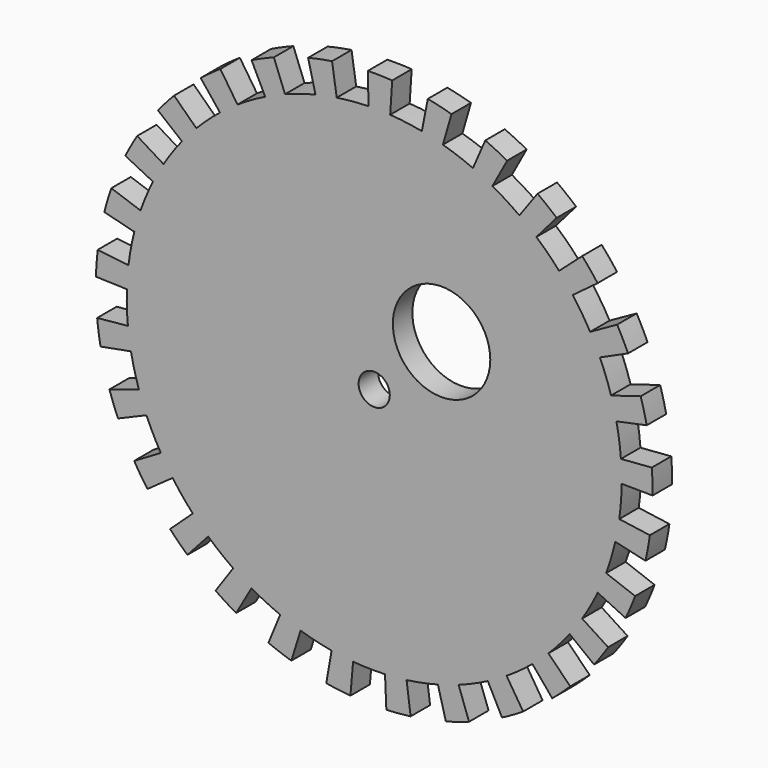
from build123d import *

# Parameters (mm, degrees)
F0_R     = 3.2
F0_R_2   = 10
F1_DEPTH = 5


with BuildPart() as f1:
    # F0 (on Front) → F1 (new body)
    with BuildSketch(Plane.XZ):
        with BuildLine():
            Line((14.102848, 48.803173), (15.865704, 54.90357))
            ThreePointArc((15.865704, 54.90357), (13.448785, 55.545051), (11.006119, 56.080191))
            Line((11.006119, 56.080191), (9.783217, 49.849059))
            ThreePointArc((9.783217, 49.849059), (11.954476, 49.373379), (14.102848, 48.803173))
        make_face()
        with BuildLine():
            Line((54.702883, 16.544396), (48.624785, 14.70613))
            ThreePointArc((48.624785, 14.70613), (49.221552, 12.564984), (49.724084, 10.399782))
            Line((49.724084, 10.399782), (55.939594, 11.699755))
            ThreePointArc((55.939594, 11.699755), (55.374246, 14.135607), (54.702883, 16.544396))
        make_face()
        with BuildLine():
            Line((49.867404, 27.9171), (44.326582, 24.8152))
            ThreePointArc((44.326582, 24.8152), (45.369679, 22.8524), (46.325917, 20.84585))
            Line((46.325917, 20.84585), (52.116656, 23.451581))
            ThreePointArc((52.116656, 23.451581), (51.040889, 25.70895), (49.867404, 27.9171))
        make_face()
        with BuildLine():
            Line((42.700181, 37.984432), (37.955716, 33.763939))
            ThreePointArc((37.955716, 33.763939), (39.396371, 32.071264), (40.761601, 30.317188))
            Line((40.761601, 30.317188), (45.856801, 34.106836))
            ThreePointArc((45.856801, 34.106836), (44.320917, 36.080172), (42.700181, 37.984432))
        make_face()
        with BuildLine():
            Line((33.536344, 46.275654), (29.810084, 41.133914))
            ThreePointArc((29.810084, 41.133914), (31.580932, 39.790511), (33.291318, 38.370928))
            Line((33.291318, 38.370928), (37.452733, 43.167294))
            ThreePointArc((37.452733, 43.167294), (35.528548, 44.764325), (33.536344, 46.275654))
        make_face()
        with BuildLine():
            Line((22.804385, 52.403077), (20.270565, 46.580513))
            ThreePointArc((20.270565, 46.580513), (22.288804, 45.649198), (24.26437, 44.630487))
            Line((24.26437, 44.630487), (27.297417, 50.209297))
            ThreePointArc((27.297417, 50.209297), (25.074904, 51.355347), (22.804385, 52.403077))
        make_face()
        with BuildLine():
            ThreePointArc((-1.161583, 50.786718), (1.06117, 50.788915), (3.281891, 50.693877))
            Line((3.281891, 50.693877), (3.692128, 57.030612))
            ThreePointArc((3.692128, 57.030612), (1.193816, 57.13753), (-1.306781, 57.135058))
            Line((-1.306781, 57.135058), (-1.161583, 50.786718))
        make_face()
        with BuildLine():
            ThreePointArc((-12.052069, 49.349647), (-9.881755, 49.829619), (-7.692523, 50.214192))
            Line((-7.692523, 50.214192), (-8.654088, 56.490966))
            ThreePointArc((-8.654088, 56.490966), (-11.116975, 56.058321), (-13.558578, 55.518352))
            Line((-13.558578, 55.518352), (-12.052069, 49.349647))
        make_face()
        with BuildLine():
            ThreePointArc((-22.379014, 45.605041), (-20.36262, 46.540345), (-18.307243, 47.386547))
            Line((-18.307243, 47.386547), (-20.595648, 53.309866))
            ThreePointArc((-20.595648, 53.309866), (-22.907948, 52.357888), (-25.176391, 51.305671))
            Line((-25.176391, 51.305671), (-22.379014, 45.605041))
        make_face()
        with BuildLine():
            ThreePointArc((-31.659541, 39.727994), (-29.891352, 41.074896), (-28.065936, 42.34316))
            Line((-28.065936, 42.34316), (-31.574179, 47.636055))
            ThreePointArc((-31.574179, 47.636055), (-33.627771, 46.209258), (-35.616983, 44.693993))
            Line((-35.616983, 44.693993), (-31.659541, 39.727994))
        make_face()
        with BuildLine():
            ThreePointArc((-39.459703, 31.99331), (-38.022397, 33.688831), (-36.512298, 35.319854))
            Line((-36.512298, 35.319854), (-41.076336, 39.734836))
            ThreePointArc((-41.076336, 39.734836), (-42.775197, 37.899934), (-44.392165, 35.992474))
            Line((-44.392165, 35.992474), (-39.459703, 31.99331))
        make_face()
        with BuildLine():
            ThreePointArc((-45.414773, 22.762654), (-44.375558, 24.727513), (-43.251386, 26.64503))
            Line((-43.251386, 26.64503), (-48.657809, 29.975659))
            ThreePointArc((-48.657809, 29.975659), (-49.922502, 27.818452), (-51.091619, 25.607986))
            Line((-51.091619, 25.607986), (-45.414773, 22.762654))
        make_face()
        with BuildLine():
            ThreePointArc((-49.246298, 12.467643), (-48.653766, 14.609964), (-47.968086, 16.724315))
            Line((-47.968086, 16.724315), (-53.964097, 18.814854))
            ThreePointArc((-53.964097, 18.814854), (-54.735487, 16.43621), (-55.402085, 14.026098))
            Line((-55.402085, 14.026098), (-49.246298, 12.467643))
        make_face()
        with BuildLine():
            ThreePointArc((-50.775122, 1.589658), (-50.656978, 3.80927), (-50.441852, 6.021589))
            Line((-50.441852, 6.021589), (-56.747084, 6.774288))
            ThreePointArc((-56.747084, 6.774288), (-56.989101, 4.285429), (-57.122012, 1.788365))
            Line((-57.122012, 1.788365), (-50.775122, 1.589658))
        make_face()
        with BuildLine():
            ThreePointArc((-49.929757, -9.362658), (-50.291527, -7.169542), (-50.557014, -4.962699))
            Line((-50.557014, -4.962699), (-56.87664, -5.583037))
            ThreePointArc((-56.87664, -5.583037), (-56.577968, -8.065734), (-56.170977, -10.53299))
            Line((-56.170977, -10.53299), (-49.929757, -9.362658))
        make_face()
        with BuildLine():
            ThreePointArc((-46.749732, -19.877186), (-47.574499, -17.813113), (-48.308185, -15.714938))
            Line((-48.308185, -15.714938), (-54.346708, -17.679305))
            ThreePointArc((-54.346708, -17.679305), (-53.521312, -20.039753), (-52.593449, -22.361834))
            Line((-52.593449, -22.361834), (-46.749732, -19.877186))
        make_face()
        with BuildLine():
            ThreePointArc((-41.383742, -29.462279), (-42.632941, -27.623764), (-43.800519, -25.732363))
            Line((-43.800519, -25.732363), (-49.275584, -28.948908))
            ThreePointArc((-49.275584, -28.948908), (-47.962059, -31.076734), (-46.55671, -33.145064))
            Line((-46.55671, -33.145064), (-41.383742, -29.462279))
        make_face()
        with BuildLine():
            ThreePointArc((-34.082694, -37.669749), (-35.697914, -36.142758), (-37.24479, -34.546571))
            Line((-37.24479, -34.546571), (-41.900389, -38.864893))
            ThreePointArc((-41.900389, -38.864893), (-40.160153, -40.660602), (-38.343031, -42.378467))
            Line((-38.343031, -42.378467), (-34.082694, -37.669749))
        make_face()
        with BuildLine():
            ThreePointArc((-25.187977, -44.115823), (-27.093692, -42.971756), (-28.947536, -41.745421))
            Line((-28.947536, -41.745421), (-32.565978, -46.963598))
            ThreePointArc((-32.565978, -46.963598), (-30.480404, -48.343226), (-28.336474, -49.6303))
            Line((-28.336474, -49.6303), (-25.187977, -44.115823))
        make_face()
        with BuildLine():
            ThreePointArc((-15.115499, -48.49909), (-17.222599, -47.791444), (-19.296727, -46.992301))
            Line((-19.296727, -46.992301), (-21.708818, -52.866338))
            ThreePointArc((-21.708818, -52.866338), (-19.375424, -53.765374), (-17.004936, -54.561476))
            Line((-17.004936, -54.561476), (-15.115499, -48.49909))
        make_face()
        with BuildLine():
            Line((-4.878265, -56.941417), (-4.336236, -50.614593))
            ThreePointArc((-4.336236, -50.614593), (-6.546197, -50.376456), (-8.743625, -50.041873))
            Line((-8.743625, -50.041873), (-9.836578, -56.297107))
            ThreePointArc((-9.836578, -56.297107), (-7.364471, -56.673513), (-4.878265, -56.941417))
        make_face()
        with BuildLine():
            Line((7.476507, -56.658842), (6.645784, -50.363415))
            ThreePointArc((6.645784, -50.363415), (4.436299, -50.605921), (2.21832, -50.751542))
            Line((2.21832, -50.751542), (2.49561, -57.095485))
            ThreePointArc((2.49561, -57.095485), (4.990836, -56.931661), (7.476507, -56.658842))
        make_face()
        with BuildLine():
            Line((19.481687, -53.726961), (17.317055, -47.757299))
            ThreePointArc((17.317055, -47.757299), (15.211358, -48.46911), (13.076538, -49.088126))
            Line((13.076538, -49.088126), (14.711105, -55.224142))
            ThreePointArc((14.711105, -55.224142), (17.112777, -54.527749), (19.481687, -53.726961))
        make_face()
        with BuildLine():
            Line((30.575924, -48.282868), (27.178599, -42.918105))
            ThreePointArc((27.178599, -42.918105), (25.27515, -44.065937), (23.323312, -45.129404))
            Line((23.323312, -45.129404), (26.238726, -50.77058))
            ThreePointArc((26.238726, -50.77058), (28.434544, -49.574179), (30.575924, -48.282868))
        make_face()
        with BuildLine():
            Line((40.240466, -40.581122), (35.769303, -36.072108))
            ThreePointArc((35.769303, -36.072108), (34.157105, -37.602289), (32.479514, -39.060481))
            Line((32.479514, -39.060481), (36.539453, -43.943041))
            ThreePointArc((36.539453, -43.943041), (38.426743, -42.302576), (40.240466, -40.581122))
        make_face()
        with BuildLine():
            Line((48.023407, -30.981847), (42.687473, -27.539419))
            ThreePointArc((42.687473, -27.539419), (41.441912, -29.380401), (40.11701, -31.165133))
            Line((40.11701, -31.165133), (45.131636, -35.060775))
            ThreePointArc((45.131636, -35.060775), (46.622151, -33.052951), (48.023407, -30.981847))
        make_face()
        with BuildLine():
            Line((53.560828, -19.933895), (47.609625, -17.719018))
            ThreePointArc((47.609625, -17.719018), (46.788941, -19.784717), (45.878679, -21.812539))
            Line((45.878679, -21.812539), (51.613513, -24.539106))
            ThreePointArc((51.613513, -24.539106), (52.637558, -22.257807), (53.560828, -19.933895))
        make_face()
        with BuildLine():
            Line((56.593804, -7.953857), (50.305604, -7.070095))
            ThreePointArc((50.305604, -7.070095), (49.948171, -9.263923), (49.495112, -11.440014))
            Line((49.495112, -11.440014), (55.682001, -12.870016))
            ThreePointArc((55.682001, -12.870016), (56.191692, -10.421913), (56.593804, -7.953857))
        make_face()
        with BuildLine():
            Line((56.980517, 4.398094), (50.649348, 3.909417))
            ThreePointArc((50.649348, 3.909417), (50.762323, 1.956159), (50.8, 0))
            ThreePointArc((50.8, 0), (50.799302, -0.266287), (50.797208, -0.532567))
            Line((50.797208, -0.532567), (57.146859, -0.599138))
            ThreePointArc((57.146859, -0.599138), (57.118365, 1.901298), (56.980517, 4.398094))
        make_face()
        with BuildLine():
            ThreePointArc((20.270565, 46.580513), (17.222599, 47.791444), (14.102848, 48.803173))
            ThreePointArc((14.102848, 48.803173), (11.954476, 49.373379), (9.783217, 49.849059))
            ThreePointArc((9.783217, 49.849059), (6.546197, 50.376456), (3.281891, 50.693877))
            ThreePointArc((3.281891, 50.693877), (1.06117, 50.788915), (-1.161583, 50.786718))
            ThreePointArc((-1.161583, 50.786718), (-4.436299, 50.605921), (-7.692523, 50.214192))
            ThreePointArc((-7.692523, 50.214192), (-9.881755, 49.829619), (-12.052069, 49.349647))
            ThreePointArc((-12.052069, 49.349647), (-15.211358, 48.46911), (-18.307243, 47.386547))
            ThreePointArc((-18.307243, 47.386547), (-20.36262, 46.540345), (-22.379014, 45.605041))
            ThreePointArc((-22.379014, 45.605041), (-25.27515, 44.065937), (-28.065936, 42.34316))
            ThreePointArc((-28.065936, 42.34316), (-29.891352, 41.074896), (-31.659541, 39.727994))
            ThreePointArc((-31.659541, 39.727994), (-34.157105, 37.602289), (-36.512298, 35.319854))
            ThreePointArc((-36.512298, 35.319854), (-38.022397, 33.688831), (-39.459703, 31.99331))
            ThreePointArc((-39.459703, 31.99331), (-41.441912, 29.380401), (-43.251386, 26.64503))
            ThreePointArc((-43.251386, 26.64503), (-44.375558, 24.727513), (-45.414773, 22.762654))
            ThreePointArc((-45.414773, 22.762654), (-46.788941, 19.784717), (-47.968086, 16.724315))
            ThreePointArc((-47.968086, 16.724315), (-48.653766, 14.609964), (-49.246298, 12.467643))
            ThreePointArc((-49.246298, 12.467643), (-49.948171, 9.263923), (-50.441852, 6.021589))
            ThreePointArc((-50.441852, 6.021589), (-50.656978, 3.80927), (-50.775122, 1.589658))
            ThreePointArc((-50.775122, 1.589658), (-50.77188, -1.690043), (-50.557014, -4.962699))
            ThreePointArc((-50.557014, -4.962699), (-50.291527, -7.169542), (-49.929757, -9.362658))
            ThreePointArc((-49.929757, -9.362658), (-49.221552, -12.564984), (-48.308185, -15.714938))
            ThreePointArc((-48.308185, -15.714938), (-47.574499, -17.813113), (-46.749732, -19.877186))
            ThreePointArc((-46.749732, -19.877186), (-45.369679, -22.8524), (-43.800519, -25.732363))
            ThreePointArc((-43.800519, -25.732363), (-42.632941, -27.623764), (-41.383742, -29.462279))
            ThreePointArc((-41.383742, -29.462279), (-39.396371, -32.071264), (-37.24479, -34.546571))
            ThreePointArc((-37.24479, -34.546571), (-35.697914, -36.142758), (-34.082694, -37.669749))
            ThreePointArc((-34.082694, -37.669749), (-31.580932, -39.790511), (-28.947536, -41.745421))
            ThreePointArc((-28.947536, -41.745421), (-27.093692, -42.971756), (-25.187977, -44.115823))
            ThreePointArc((-25.187977, -44.115823), (-22.288804, -45.649198), (-19.296727, -46.992301))
            ThreePointArc((-19.296727, -46.992301), (-17.222599, -47.791444), (-15.115499, -48.49909))
            ThreePointArc((-15.115499, -48.49909), (-11.954476, -49.373379), (-8.743625, -50.041873))
            ThreePointArc((-8.743625, -50.041873), (-6.546197, -50.376456), (-4.336236, -50.614593))
            ThreePointArc((-4.336236, -50.614593), (-1.06117, -50.788915), (2.21832, -50.751542))
            ThreePointArc((2.21832, -50.751542), (4.436299, -50.605921), (6.645784, -50.363415))
            ThreePointArc((6.645784, -50.363415), (9.881755, -49.829619), (13.076538, -49.088126))
            ThreePointArc((13.076538, -49.088126), (15.211358, -48.46911), (17.317055, -47.757299))
            ThreePointArc((17.317055, -47.757299), (20.36262, -46.540345), (23.323312, -45.129404))
            ThreePointArc((23.323312, -45.129404), (25.27515, -44.065937), (27.178599, -42.918105))
            ThreePointArc((27.178599, -42.918105), (29.891352, -41.074896), (32.479514, -39.060481))
            ThreePointArc((32.479514, -39.060481), (34.157105, -37.602289), (35.769303, -36.072108))
            ThreePointArc((35.769303, -36.072108), (38.022397, -33.688831), (40.11701, -31.165133))
            ThreePointArc((40.11701, -31.165133), (41.441912, -29.380401), (42.687473, -27.539419))
            ThreePointArc((42.687473, -27.539419), (44.375558, -24.727513), (45.878679, -21.812539))
            ThreePointArc((45.878679, -21.812539), (46.788941, -19.784717), (47.609625, -17.719018))
            ThreePointArc((47.609625, -17.719018), (48.653766, -14.609964), (49.495112, -11.440014))
            ThreePointArc((49.495112, -11.440014), (49.948171, -9.263923), (50.305604, -7.070095))
            ThreePointArc((50.305604, -7.070095), (50.656978, -3.80927), (50.797208, -0.532567))
            ThreePointArc((50.797208, -0.532567), (50.799302, -0.266287), (50.8, 0))
            ThreePointArc((50.8, 0), (50.762323, 1.956159), (50.649348, 3.909417))
            ThreePointArc((50.649348, 3.909417), (50.291527, 7.169542), (49.724084, 10.399782))
            ThreePointArc((49.724084, 10.399782), (49.221552, 12.564984), (48.624785, 14.70613))
            ThreePointArc((48.624785, 14.70613), (47.574499, 17.813113), (46.325917, 20.84585))
            ThreePointArc((46.325917, 20.84585), (45.369679, 22.8524), (44.326582, 24.8152))
            ThreePointArc((44.326582, 24.8152), (42.632941, 27.623764), (40.761601, 30.317188))
            ThreePointArc((40.761601, 30.317188), (39.396371, 32.071264), (37.955716, 33.763939))
            ThreePointArc((37.955716, 33.763939), (35.697914, 36.142758), (33.291318, 38.370928))
            ThreePointArc((33.291318, 38.370928), (31.580932, 39.790511), (29.810084, 41.133914))
            ThreePointArc((29.810084, 41.133914), (27.093692, 42.971756), (24.26437, 44.630487))
            ThreePointArc((24.26437, 44.630487), (22.288804, 45.649198), (20.270565, 46.580513))
        make_face()
        Circle(F0_R, mode=Mode.SUBTRACT)
        with Locations((13.829485, 13.09651)):
            Circle(F0_R_2, mode=Mode.SUBTRACT)
    extrude(amount=F1_DEPTH)


solid = f1.part
